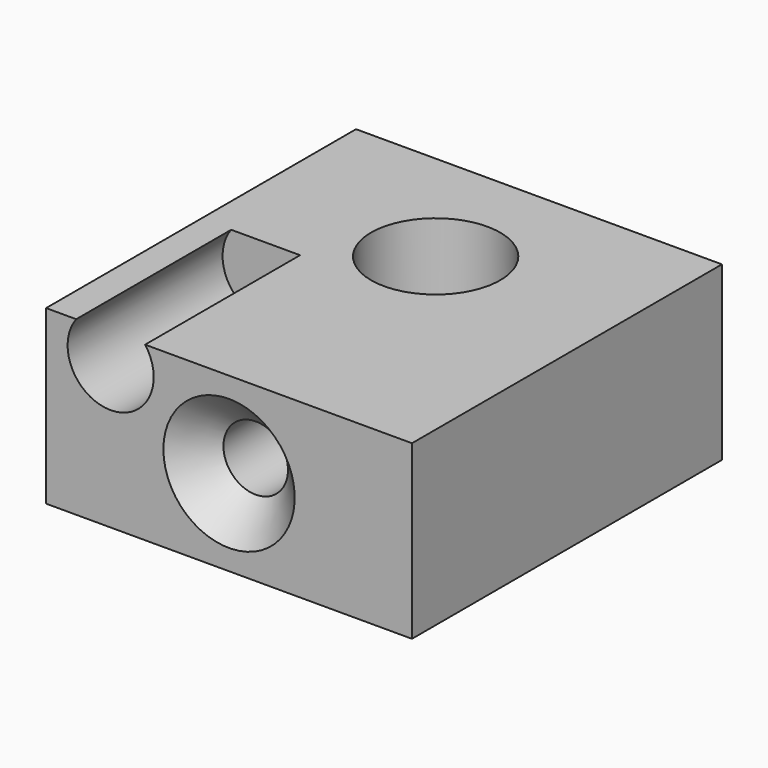
from build123d import *

# Parameters (mm, degrees)
CYLINDER002_R       = 2
CYLINDER002_DEPTH   = 10
SKETCH007_W         = 17
SKETCH007_H         = 8
PAD002_DEPTH        = 18
HOLE003_D           = 3
HOLE003_DEPTH       = 10
HOLE003_CSINK_D     = 6.1
HOLE003_CSINK_ANGLE = 90
HOLE003_TIPS_R      = 1.5
SKETCH009_R         = 3
HOLE004_DEPTH       = 7


with BuildPart() as cylinder002:
    # Cylinder002 → Cylinder002 (new body)
    with BuildSketch(Plane(origin=(-5.5, -9, 2.8), x_dir=(1, 0, 0), z_dir=(0, -1, 0))):
        Circle(CYLINDER002_R)
    extrude(amount=CYLINDER002_DEPTH)


with BuildPart() as cut002004:
    # Sketch007 → Pad002 (new body)
    with BuildSketch(Plane.XZ):
        Rectangle(SKETCH007_W, SKETCH007_H)
    extrude(amount=PAD002_DEPTH)

    # Hole003
    with Locations(Plane.XZ.offset(18)):
        with Locations((0, 0)):
            CounterSinkHole(HOLE003_D / 2, HOLE003_CSINK_D / 2, depth=HOLE003_DEPTH, counter_sink_angle=HOLE003_CSINK_ANGLE)

    # Hole003 tips → Hole003 tip 1 section 0
    with BuildSketch(Plane.XZ.offset(8), mode=Mode.PRIVATE) as hole003_tip_1_s0:
        Circle(HOLE003_TIPS_R)
    loft([hole003_tip_1_s0.sketch, Vertex(0, -7.098709, 0)], mode=Mode.SUBTRACT)

    # Sketch009 (on Face1 of Hole003) → Hole004 (cut)
    with BuildSketch(Plane(origin=(0, 0, 4), x_dir=(-1, 0, 0), z_dir=(0, 0, 1))):
        with Locations((0, 6)):
            Circle(SKETCH009_R)
    extrude(amount=-HOLE004_DEPTH, mode=Mode.SUBTRACT)

    # Cut002004: cut Cylinder002
    add(cylinder002.part, mode=Mode.SUBTRACT)


solid = cut002004.part
